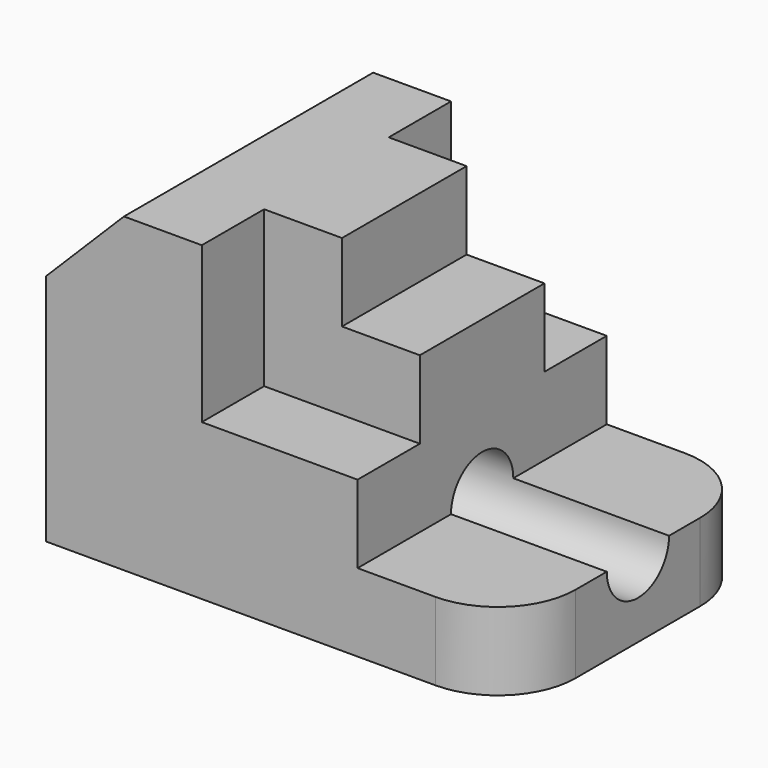
from build123d import *

# Parameters (mm, degrees)
F1_DEPTH = 50.8
F2_W     = 12.7
F2_H     = 12.7
F3_DEPTH = 25.4
F4_W     = 12.7
F4_H     = 12.7
F5_DEPTH = 25.4
F6_R     = 12.7
F7_R     = 6.35
F8_DEPTH = 76.201


with BuildPart() as f1:
    # F0 (on Front) → F1 (new body)
    with BuildSketch(Plane.XZ):
        Polygon((0, 38.1), (0, 0), (76.2, 0), (76.2, 12.7), (50.8, 12.7), (50.8, 38.1), (38.1, 38.1), (38.1, 50.8), (12.7, 50.8), align=None)
    extrude(amount=F1_DEPTH)

    # F2 (on face) → F3 (cut)
    with BuildSketch(Plane.XY.offset(50.8)):
        with Locations((44.45, -6.35)):
            Rectangle(F2_W, F2_H)
        with Locations((44.45, -44.45)):
            Rectangle(F2_W, F2_H)
    extrude(amount=-F3_DEPTH, mode=Mode.SUBTRACT)

    # F4 (on face) → F5 (cut)
    with BuildSketch(Plane.XY.offset(50.8)):
        with Locations((31.75, -6.35)):
            Rectangle(F4_W, F4_H)
        with Locations((31.75, -44.45)):
            Rectangle(F4_W, F4_H)
    extrude(amount=-F5_DEPTH, mode=Mode.SUBTRACT)

    # F6
    f6_edges = [f1.edges().sort_by_distance(p)[0] for p in [
        (76.2, -50.8, 6.35),
        (76.2, 0, 6.35),
    ]]
    fillet(f6_edges, radius=F6_R)

    # F7 (on face) → F8 (cut, through all)
    with BuildSketch(Plane.YZ.offset(76.2)):
        with Locations((-25.4, 12.7)):
            Circle(F7_R)
    extrude(amount=-F8_DEPTH, mode=Mode.SUBTRACT)


solid = f1.part
